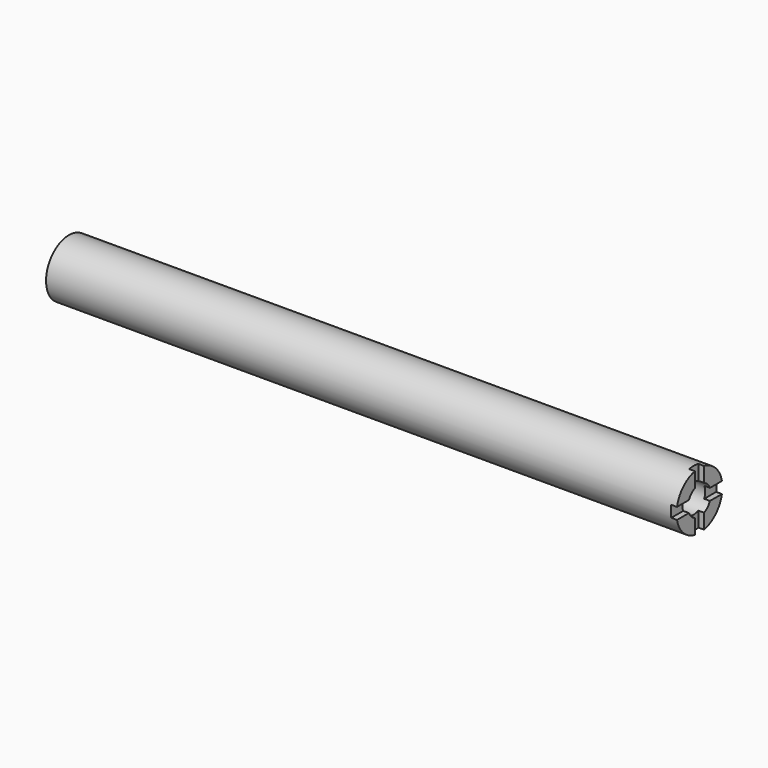
from build123d import *

# Parameters (mm, degrees)
F0_R     = 12.7
F1_DEPTH = 279.4
F2_R     = 6.35
F3_DEPTH = 25.4
F5_DEPTH = 2.54


with BuildPart() as f1:
    # F0 (on Right) → F1 (new body)
    with BuildSketch(Plane.YZ):
        Circle(F0_R)
    extrude(amount=F1_DEPTH)

    # F2 (on face) → F3 (cut)
    with BuildSketch(Plane.YZ.offset(279.4)):
        Circle(F2_R)
    extrude(amount=-F3_DEPTH, mode=Mode.SUBTRACT)

    # F4 (on face) → F5 (cut)
    with BuildSketch(Plane.YZ.offset(279.4)):
        with BuildLine():
            Line((-12.7, 0), (-6.35, 0))
            ThreePointArc((-6.35, 0), (-6.2160550871, 1.2973662374), (-5.8198711326, 2.54))
            Line((-5.8198711326, 2.54), (-12.4434078933, 2.54))
            ThreePointArc((-12.4434078933, 2.54), (-12.6356891432, 1.2764638175), (-12.7, 0))
        make_face()
        with BuildLine():
            ThreePointArc((-2.54, 5.8198711326), (-1.2973662374, 6.2160550871), (0, 6.35))
            Line((0, 6.35), (0, 12.7))
            ThreePointArc((0, 12.7), (-1.2764638175, 12.6356891432), (-2.54, 12.4434078933))
            Line((-2.54, 12.4434078933), (-2.54, 5.8198711326))
        make_face()
        with BuildLine():
            ThreePointArc((0, 6.35), (1.2973662374, 6.2160550871), (2.54, 5.8198711326))
            Line((2.54, 5.8198711326), (2.54, 12.4434078933))
            ThreePointArc((2.54, 12.4434078933), (1.2764638175, 12.6356891432), (0, 12.7))
            Line((0, 12.7), (0, 6.35))
        make_face()
        with BuildLine():
            ThreePointArc((5.8198711326, 2.54), (6.2160550871, 1.2973662374), (6.35, 0))
            Line((6.35, 0), (12.7, 0))
            ThreePointArc((12.7, 0), (12.6356891432, 1.2764638175), (12.4434078933, 2.54))
            Line((12.4434078933, 2.54), (5.8198711326, 2.54))
        make_face()
        with BuildLine():
            Line((12.7, 0), (6.35, 0))
            ThreePointArc((6.35, 0), (6.2160550871, -1.2973662374), (5.8198711326, -2.54))
            Line((5.8198711326, -2.54), (12.4434078933, -2.54))
            ThreePointArc((12.4434078933, -2.54), (12.6356891432, -1.2764638175), (12.7, 0))
        make_face()
        with BuildLine():
            ThreePointArc((-5.8198711326, -2.54), (-6.2160550871, -1.2973662374), (-6.35, 0))
            Line((-6.35, 0), (-12.7, 0))
            ThreePointArc((-12.7, 0), (-12.6356891432, -1.2764638175), (-12.4434078933, -2.54))
            Line((-12.4434078933, -2.54), (-5.8198711326, -2.54))
        make_face()
        with BuildLine():
            Line((0, -12.7), (0, -6.35))
            ThreePointArc((0, -6.35), (-1.2973662374, -6.2160550871), (-2.54, -5.8198711326))
            Line((-2.54, -5.8198711326), (-2.54, -12.4434078933))
            ThreePointArc((-2.54, -12.4434078933), (-1.2764638175, -12.6356891432), (0, -12.7))
        make_face()
        with BuildLine():
            Line((2.54, -12.4434078933), (2.54, -5.8198711326))
            ThreePointArc((2.54, -5.8198711326), (1.2973662374, -6.2160550871), (0, -6.35))
            Line((0, -6.35), (0, -12.7))
            ThreePointArc((0, -12.7), (1.2764638175, -12.6356891432), (2.54, -12.4434078933))
        make_face()
    extrude(amount=-F5_DEPTH, mode=Mode.SUBTRACT)


solid = f1.part
